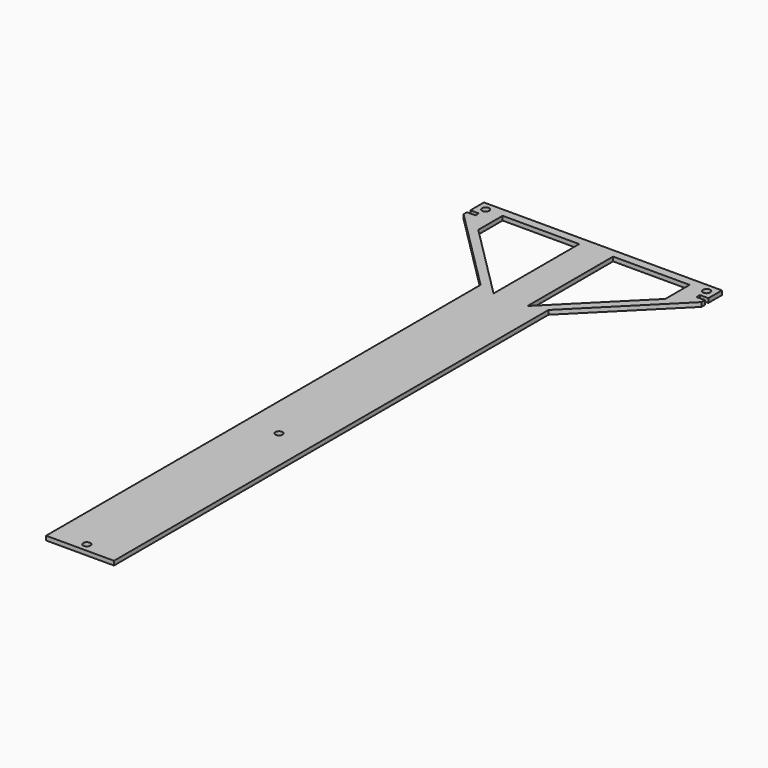
from build123d import *

# Parameters (mm, degrees)
F0_R     = 1.35255
F1_DEPTH = 1.5875
F2_W     = 3.175
F2_H     = 1.5875
F3_DEPTH = 1.5875


with BuildPart() as f1:
    # F0 (on Top) → F1 (new body)
    with BuildSketch(Plane.XY):
        Polygon((0, 0), (0, -203.2), (25.4, -203.2), (25.4, 0), (57.21985, 31.81985), (57.21985, 41.34485), (-31.81985, 41.34485), (-31.81985, 31.81985), align=None)
        with Locations((12.7, -200.025)):
            Circle(F0_R, mode=Mode.SUBTRACT)
        with Locations((12.7, -110.143127)):
            Circle(F0_R, mode=Mode.SUBTRACT)
        with Locations((-28.64485, 38.16985)):
            Circle(F0_R, mode=Mode.SUBTRACT)
        with Locations((54.04485, 38.16985)):
            Circle(F0_R, mode=Mode.SUBTRACT)
    extrude(amount=F1_DEPTH)

    # F2 (on face) → F3 (cut, through all)
    with BuildSketch(Plane.XY.offset(1.5875)):
        with Locations((-30.23235, 34.2011)):
            Rectangle(F2_W, F2_H)
        with Locations((55.63235, 34.2011)):
            Rectangle(F2_W, F2_H)
        Polygon((-22.29485, 38.16985), (-22.29485, 26.784978), (6.35, -1.859872), (6.35, 38.16985), align=None)
        Polygon((47.69485, 38.16985), (19.05, 38.16985), (19.05, -1.859872), (47.69485, 26.784978), align=None)
    extrude(amount=-F3_DEPTH, mode=Mode.SUBTRACT)


solid = f1.part
